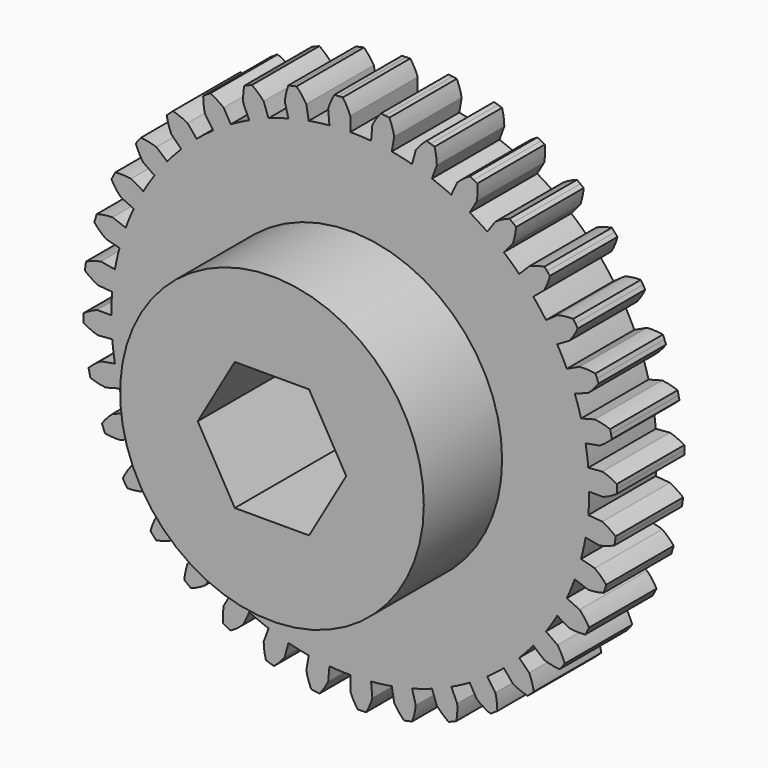
from build123d import *

# Parameters (mm, degrees)
F1_DEPTH = 6.35
F2_R     = 11.43
F3_DEPTH = 7.366
F5_DEPTH = 25.4


with BuildPart() as f1:
    # F0 (on Front) → F1 (new body)
    with BuildSketch(Plane.XZ):
        with BuildLine():
            Line((4.930503, 18.400887), (4.654395, 17.370437))
            ThreePointArc((4.654395, 17.370437), (3.892277, 17.556926), (3.12275, 17.709995))
            ThreePointArc((3.12275, 17.709995), (2.347279, 17.829351), (1.567339, 17.914768))
            ThreePointArc((1.567339, 17.914768), (0.784416, 17.966084), (0, 17.9832))
            ThreePointArc((0, 17.9832), (-0.784416, 17.966084), (-1.567339, 17.914768))
            ThreePointArc((-1.567339, 17.914768), (-2.347279, 17.829351), (-3.12275, 17.709995))
            ThreePointArc((-3.12275, 17.709995), (-3.892277, 17.556926), (-4.654395, 17.370437))
            ThreePointArc((-4.654395, 17.370437), (-5.407653, 17.150883), (-6.150617, 16.89868))
            ThreePointArc((-6.150617, 16.89868), (-6.881873, 16.61431), (-7.600029, 16.298314))
            ThreePointArc((-7.600029, 16.298314), (-8.303718, 15.951293), (-8.9916, 15.573908))
            ThreePointArc((-8.9916, 15.573908), (-9.662366, 15.166877), (-10.31474, 14.730975))
            ThreePointArc((-10.31474, 14.730975), (-10.947479, 14.267032), (-11.559378, 13.77593))
            ThreePointArc((-11.559378, 13.77593), (-12.149274, 13.258606), (-12.716043, 12.716043))
            ThreePointArc((-12.716043, 12.716043), (-13.258606, 12.149274), (-13.77593, 11.559378))
            ThreePointArc((-13.77593, 11.559378), (-14.267032, 10.947479), (-14.730975, 10.31474))
            ThreePointArc((-14.730975, 10.31474), (-15.166877, 9.662366), (-15.573908, 8.9916))
            ThreePointArc((-15.573908, 8.9916), (-15.951293, 8.303718), (-16.298314, 7.600029))
            ThreePointArc((-16.298314, 7.600029), (-16.61431, 6.881873), (-16.89868, 6.150617))
            ThreePointArc((-16.89868, 6.150617), (-17.150883, 5.407653), (-17.370437, 4.654395))
            ThreePointArc((-17.370437, 4.654395), (-17.556926, 3.892277), (-17.709995, 3.12275))
            ThreePointArc((-17.709995, 3.12275), (-17.829351, 2.347279), (-17.914768, 1.567339))
            ThreePointArc((-17.914768, 1.567339), (-17.966084, 0.784416), (-17.9832, 0))
            ThreePointArc((-17.9832, 0), (-17.966084, -0.784416), (-17.914768, -1.567339))
            ThreePointArc((-17.914768, -1.567339), (-17.829351, -2.347279), (-17.709995, -3.12275))
            ThreePointArc((-17.709995, -3.12275), (-17.556926, -3.892277), (-17.370437, -4.654395))
            ThreePointArc((-17.370437, -4.654395), (-17.150883, -5.407653), (-16.89868, -6.150617))
            ThreePointArc((-16.89868, -6.150617), (-16.61431, -6.881873), (-16.298314, -7.600029))
            ThreePointArc((-16.298314, -7.600029), (-15.951293, -8.303718), (-15.573908, -8.9916))
            ThreePointArc((-15.573908, -8.9916), (-15.166877, -9.662366), (-14.730975, -10.31474))
            ThreePointArc((-14.730975, -10.31474), (-14.267032, -10.947479), (-13.77593, -11.559378))
            ThreePointArc((-13.77593, -11.559378), (-13.258606, -12.149274), (-12.716043, -12.716043))
            ThreePointArc((-12.716043, -12.716043), (-12.149274, -13.258606), (-11.559378, -13.77593))
            ThreePointArc((-11.559378, -13.77593), (-10.947479, -14.267032), (-10.31474, -14.730975))
            ThreePointArc((-10.31474, -14.730975), (-9.662366, -15.166877), (-8.9916, -15.573908))
            ThreePointArc((-8.9916, -15.573908), (-8.303718, -15.951293), (-7.600029, -16.298314))
            ThreePointArc((-7.600029, -16.298314), (-6.881873, -16.61431), (-6.150617, -16.89868))
            ThreePointArc((-6.150617, -16.89868), (-5.407653, -17.150883), (-4.654395, -17.370437))
            ThreePointArc((-4.654395, -17.370437), (-3.892277, -17.556926), (-3.12275, -17.709995))
            ThreePointArc((-3.12275, -17.709995), (-2.347279, -17.829351), (-1.567339, -17.914768))
            ThreePointArc((-1.567339, -17.914768), (-0.784416, -17.966084), (0, -17.9832))
            ThreePointArc((0, -17.9832), (0.784416, -17.966084), (1.567339, -17.914768))
            ThreePointArc((1.567339, -17.914768), (2.347279, -17.829351), (3.12275, -17.709995))
            ThreePointArc((3.12275, -17.709995), (3.892277, -17.556926), (4.654395, -17.370437))
            ThreePointArc((4.654395, -17.370437), (5.407653, -17.150883), (6.150617, -16.89868))
            ThreePointArc((6.150617, -16.89868), (6.881873, -16.61431), (7.600029, -16.298314))
            ThreePointArc((7.600029, -16.298314), (8.303718, -15.951293), (8.9916, -15.573908))
            ThreePointArc((8.9916, -15.573908), (9.662366, -15.166877), (10.31474, -14.730975))
            ThreePointArc((10.31474, -14.730975), (10.947479, -14.267032), (11.559378, -13.77593))
            ThreePointArc((11.559378, -13.77593), (12.149274, -13.258606), (12.716043, -12.716043))
            ThreePointArc((12.716043, -12.716043), (13.258606, -12.149274), (13.77593, -11.559378))
            ThreePointArc((13.77593, -11.559378), (14.267032, -10.947479), (14.730975, -10.31474))
            ThreePointArc((14.730975, -10.31474), (15.166877, -9.662366), (15.573908, -8.9916))
            ThreePointArc((15.573908, -8.9916), (15.951293, -8.303718), (16.298314, -7.600029))
            ThreePointArc((16.298314, -7.600029), (16.61431, -6.881873), (16.89868, -6.150617))
            ThreePointArc((16.89868, -6.150617), (17.150883, -5.407653), (17.370437, -4.654395))
            ThreePointArc((17.370437, -4.654395), (17.556926, -3.892277), (17.709995, -3.12275))
            ThreePointArc((17.709995, -3.12275), (17.829351, -2.347279), (17.914768, -1.567339))
            ThreePointArc((17.914768, -1.567339), (17.966084, -0.784416), (17.9832, 0))
            ThreePointArc((17.9832, 0), (17.966084, 0.784416), (17.914768, 1.567339))
            ThreePointArc((17.914768, 1.567339), (17.829351, 2.347279), (17.709995, 3.12275))
            ThreePointArc((17.709995, 3.12275), (17.556926, 3.892277), (17.370437, 4.654395))
            ThreePointArc((17.370437, 4.654395), (17.150883, 5.407653), (16.89868, 6.150617))
            ThreePointArc((16.89868, 6.150617), (16.61431, 6.881873), (16.298314, 7.600029))
            ThreePointArc((16.298314, 7.600029), (15.951293, 8.303718), (15.573908, 8.9916))
            ThreePointArc((15.573908, 8.9916), (15.166877, 9.662366), (14.730975, 10.31474))
            ThreePointArc((14.730975, 10.31474), (14.267032, 10.947479), (13.77593, 11.559378))
            ThreePointArc((13.77593, 11.559378), (13.258606, 12.149274), (12.716043, 12.716043))
            ThreePointArc((12.716043, 12.716043), (12.149274, 13.258606), (11.559378, 13.77593))
            ThreePointArc((11.559378, 13.77593), (10.947479, 14.267032), (10.31474, 14.730975))
            ThreePointArc((10.31474, 14.730975), (9.662366, 15.166877), (8.9916, 15.573908))
            Line((8.9916, 15.573908), (9.525, 16.497784))
            ThreePointArc((9.525, 16.497784), (9.580805, 17.089891), (9.562378, 17.684337))
            ThreePointArc((9.562378, 17.684337), (9.423001, 17.758995), (9.28304, 17.832554))
            ThreePointArc((9.28304, 17.832554), (9.142506, 17.905011), (9.001406, 17.97636))
            ThreePointArc((9.001406, 17.97636), (8.503895, 17.650495), (8.050878, 17.265163))
            Line((8.050878, 17.265163), (7.600029, 16.298314))
            ThreePointArc((7.600029, 16.298314), (6.881873, 16.61431), (6.150617, 16.89868))
            Line((6.150617, 16.89868), (6.515484, 17.901144))
            ThreePointArc((6.515484, 17.901144), (6.467623, 18.493947), (6.346251, 19.076161))
            ThreePointArc((6.346251, 19.076161), (6.196027, 19.125483), (6.045419, 19.173621))
            ThreePointArc((6.045419, 19.173621), (5.894438, 19.220573), (5.743092, 19.266337))
            ThreePointArc((5.743092, 19.266337), (5.309726, 18.85903), (4.930503, 18.400887))
        make_face()
        with BuildLine():
            ThreePointArc((-10.31474, 14.730975), (-9.662366, 15.166877), (-8.9916, 15.573908))
            Line((-8.9916, 15.573908), (-9.525, 16.497784))
            ThreePointArc((-9.525, 16.497784), (-10.009877, 16.842166), (-10.533896, 17.123431))
            ThreePointArc((-10.533896, 17.123431), (-10.66824, 17.040055), (-10.801925, 16.955626))
            ThreePointArc((-10.801925, 16.955626), (-10.934942, 16.870148), (-11.067282, 16.783626))
            ThreePointArc((-11.067282, 16.783626), (-11.033829, 16.189837), (-10.926631, 15.604846))
            Line((-10.926631, 15.604846), (-10.31474, 14.730975))
        make_face()
        with BuildLine():
            ThreePointArc((-16.298314, -7.600029), (-16.61431, -6.881873), (-16.89868, -6.150617))
            Line((-16.89868, -6.150617), (-17.901144, -6.515484))
            ThreePointArc((-17.901144, -6.515484), (-18.324493, -6.933193), (-18.692479, -7.40041))
            ThreePointArc((-18.692479, -7.40041), (-18.633699, -7.547191), (-18.573767, -7.693506))
            ThreePointArc((-18.573767, -7.693506), (-18.512685, -7.839345), (-18.450459, -7.984699))
            ThreePointArc((-18.450459, -7.984699), (-17.859881, -8.054865), (-17.265163, -8.050878))
            Line((-17.265163, -8.050878), (-16.298314, -7.600029))
        make_face()
        with BuildLine():
            Line((8.050878, -17.265163), (7.600029, -16.298314))
            ThreePointArc((7.600029, -16.298314), (6.881873, -16.61431), (6.150617, -16.89868))
            Line((6.150617, -16.89868), (6.515484, -17.901144))
            ThreePointArc((6.515484, -17.901144), (6.933193, -18.324493), (7.40041, -18.692479))
            ThreePointArc((7.40041, -18.692479), (7.547191, -18.633699), (7.693506, -18.573767))
            ThreePointArc((7.693506, -18.573767), (7.839345, -18.512685), (7.984699, -18.450459))
            ThreePointArc((7.984699, -18.450459), (8.054865, -17.859881), (8.050878, -17.265163))
        make_face()
        with BuildLine():
            ThreePointArc((-10.31474, -14.730975), (-10.947479, -14.267032), (-11.559378, -13.77593))
            Line((-11.559378, -13.77593), (-12.245104, -14.593147))
            ThreePointArc((-12.245104, -14.593147), (-12.402879, -15.166568), (-12.487957, -15.755182))
            ThreePointArc((-12.487957, -15.755182), (-12.363661, -15.852909), (-12.238601, -15.949655))
            ThreePointArc((-12.238601, -15.949655), (-12.112783, -16.045414), (-11.986216, -16.140181))
            ThreePointArc((-11.986216, -16.140181), (-11.439678, -15.905658), (-10.926631, -15.604846))
            Line((-10.926631, -15.604846), (-10.31474, -14.730975))
        make_face()
        with BuildLine():
            ThreePointArc((-12.716043, -12.716043), (-13.258606, -12.149274), (-13.77593, -11.559378))
            Line((-13.77593, -11.559378), (-14.593147, -12.245104))
            ThreePointArc((-14.593147, -12.245104), (-14.848099, -12.782416), (-15.034095, -13.347315))
            ThreePointArc((-15.034095, -13.347315), (-14.928658, -13.46514), (-14.822297, -13.582133))
            ThreePointArc((-14.822297, -13.582133), (-14.71502, -13.698286), (-14.606832, -13.813591))
            ThreePointArc((-14.606832, -13.813591), (-14.027872, -13.677536), (-13.470384, -13.470384))
            Line((-13.470384, -13.470384), (-12.716043, -12.716043))
        make_face()
        with BuildLine():
            ThreePointArc((-7.600029, 16.298314), (-6.881873, 16.61431), (-6.150617, 16.89868))
            Line((-6.150617, 16.89868), (-6.515484, 17.901144))
            ThreePointArc((-6.515484, 17.901144), (-6.933193, 18.324493), (-7.40041, 18.692479))
            ThreePointArc((-7.40041, 18.692479), (-7.547191, 18.633699), (-7.693506, 18.573767))
            ThreePointArc((-7.693506, 18.573767), (-7.839345, 18.512685), (-7.984699, 18.450459))
            ThreePointArc((-7.984699, 18.450459), (-8.054865, 17.859881), (-8.050878, 17.265163))
            Line((-8.050878, 17.265163), (-7.600029, 16.298314))
        make_face()
        with BuildLine():
            ThreePointArc((-12.716043, 12.716043), (-12.149274, 13.258606), (-11.559378, 13.77593))
            Line((-11.559378, 13.77593), (-12.245104, 14.593147))
            ThreePointArc((-12.245104, 14.593147), (-12.782416, 14.848099), (-13.347315, 15.034095))
            ThreePointArc((-13.347315, 15.034095), (-13.46514, 14.928658), (-13.582133, 14.822297))
            ThreePointArc((-13.582133, 14.822297), (-13.698286, 14.71502), (-13.813591, 14.606832))
            ThreePointArc((-13.813591, 14.606832), (-13.677536, 14.027872), (-13.470384, 13.470384))
            Line((-13.470384, 13.470384), (-12.716043, 12.716043))
        make_face()
        with BuildLine():
            ThreePointArc((-16.298314, 7.600029), (-15.951293, 8.303718), (-15.573908, 8.9916))
            Line((-15.573908, 8.9916), (-16.497784, 9.525))
            ThreePointArc((-16.497784, 9.525), (-17.089891, 9.580805), (-17.684337, 9.562378))
            ThreePointArc((-17.684337, 9.562378), (-17.758995, 9.423001), (-17.832554, 9.28304))
            ThreePointArc((-17.832554, 9.28304), (-17.905011, 9.142506), (-17.97636, 9.001406))
            ThreePointArc((-17.97636, 9.001406), (-17.650495, 8.503895), (-17.265163, 8.050878))
            Line((-17.265163, 8.050878), (-16.298314, 7.600029))
        make_face()
        with BuildLine():
            Line((15.604846, 10.926631), (14.730975, 10.31474))
            ThreePointArc((14.730975, 10.31474), (15.166877, 9.662366), (15.573908, 8.9916))
            Line((15.573908, 8.9916), (16.497784, 9.525))
            ThreePointArc((16.497784, 9.525), (16.842166, 10.009877), (17.123431, 10.533896))
            ThreePointArc((17.123431, 10.533896), (17.040055, 10.66824), (16.955626, 10.801925))
            ThreePointArc((16.955626, 10.801925), (16.870148, 10.934942), (16.783626, 11.067282))
            ThreePointArc((16.783626, 11.067282), (16.189837, 11.033829), (15.604846, 10.926631))
        make_face()
        with BuildLine():
            Line((13.470384, -13.470384), (12.716043, -12.716043))
            ThreePointArc((12.716043, -12.716043), (12.149274, -13.258606), (11.559378, -13.77593))
            Line((11.559378, -13.77593), (12.245104, -14.593147))
            ThreePointArc((12.245104, -14.593147), (12.782416, -14.848099), (13.347315, -15.034095))
            ThreePointArc((13.347315, -15.034095), (13.46514, -14.928658), (13.582133, -14.822297))
            ThreePointArc((13.582133, -14.822297), (13.698286, -14.71502), (13.813591, -14.606832))
            ThreePointArc((13.813591, -14.606832), (13.677536, -14.027872), (13.470384, -13.470384))
        make_face()
        with BuildLine():
            Line((15.604846, -10.926631), (14.730975, -10.31474))
            ThreePointArc((14.730975, -10.31474), (14.267032, -10.947479), (13.77593, -11.559378))
            Line((13.77593, -11.559378), (14.593147, -12.245104))
            ThreePointArc((14.593147, -12.245104), (15.166568, -12.402879), (15.755182, -12.487957))
            ThreePointArc((15.755182, -12.487957), (15.852909, -12.363661), (15.949655, -12.238601))
            ThreePointArc((15.949655, -12.238601), (16.045414, -12.112783), (16.140181, -11.986216))
            ThreePointArc((16.140181, -11.986216), (15.905658, -11.439678), (15.604846, -10.926631))
        make_face()
        with BuildLine():
            Line((18.400887, 4.930503), (17.370437, 4.654395))
            ThreePointArc((17.370437, 4.654395), (17.556926, 3.892277), (17.709995, 3.12275))
            Line((17.709995, 3.12275), (18.760588, 3.307998))
            ThreePointArc((18.760588, 3.307998), (19.250039, 3.645848), (19.693566, 4.042066))
            ThreePointArc((19.693566, 4.042066), (19.661167, 4.196825), (19.627553, 4.351324))
            ThreePointArc((19.627553, 4.351324), (19.592724, 4.505554), (19.556683, 4.659505))
            ThreePointArc((19.556683, 4.659505), (18.987262, 4.831158), (18.400887, 4.930503))
        make_face()
        with BuildLine():
            Line((17.265163, 8.050878), (16.298314, 7.600029))
            ThreePointArc((16.298314, 7.600029), (16.61431, 6.881873), (16.89868, 6.150617))
            Line((16.89868, 6.150617), (17.901144, 6.515484))
            ThreePointArc((17.901144, 6.515484), (18.324493, 6.933193), (18.692479, 7.40041))
            ThreePointArc((18.692479, 7.40041), (18.633699, 7.547191), (18.573767, 7.693506))
            ThreePointArc((18.573767, 7.693506), (18.512685, 7.839345), (18.450459, 7.984699))
            ThreePointArc((18.450459, 7.984699), (17.859881, 8.054865), (17.265163, 8.050878))
        make_face()
        with BuildLine():
            ThreePointArc((-7.600029, -16.298314), (-8.303718, -15.951293), (-8.9916, -15.573908))
            Line((-8.9916, -15.573908), (-9.525, -16.497784))
            ThreePointArc((-9.525, -16.497784), (-9.580805, -17.089891), (-9.562378, -17.684337))
            ThreePointArc((-9.562378, -17.684337), (-9.423001, -17.758995), (-9.28304, -17.832554))
            ThreePointArc((-9.28304, -17.832554), (-9.142506, -17.905011), (-9.001406, -17.97636))
            ThreePointArc((-9.001406, -17.97636), (-8.503895, -17.650495), (-8.050878, -17.265163))
            Line((-8.050878, -17.265163), (-7.600029, -16.298314))
        make_face()
        with BuildLine():
            Line((13.470384, 13.470384), (12.716043, 12.716043))
            ThreePointArc((12.716043, 12.716043), (13.258606, 12.149274), (13.77593, 11.559378))
            Line((13.77593, 11.559378), (14.593147, 12.245104))
            ThreePointArc((14.593147, 12.245104), (14.848099, 12.782416), (15.034095, 13.347315))
            ThreePointArc((15.034095, 13.347315), (14.928658, 13.46514), (14.822297, 13.582133))
            ThreePointArc((14.822297, 13.582133), (14.71502, 13.698286), (14.606832, 13.813591))
            ThreePointArc((14.606832, 13.813591), (14.027872, 13.677536), (13.470384, 13.470384))
        make_face()
        with BuildLine():
            ThreePointArc((-4.654395, -17.370437), (-5.407653, -17.150883), (-6.150617, -16.89868))
            Line((-6.150617, -16.89868), (-6.515484, -17.901144))
            ThreePointArc((-6.515484, -17.901144), (-6.467623, -18.493947), (-6.346251, -19.076161))
            ThreePointArc((-6.346251, -19.076161), (-6.196027, -19.125483), (-6.045419, -19.173621))
            ThreePointArc((-6.045419, -19.173621), (-5.894438, -19.220573), (-5.743092, -19.266337))
            ThreePointArc((-5.743092, -19.266337), (-5.309726, -18.85903), (-4.930503, -18.400887))
            Line((-4.930503, -18.400887), (-4.654395, -17.370437))
        make_face()
        with BuildLine():
            Line((10.926631, 15.604846), (10.31474, 14.730975))
            ThreePointArc((10.31474, 14.730975), (10.947479, 14.267032), (11.559378, 13.77593))
            Line((11.559378, 13.77593), (12.245104, 14.593147))
            ThreePointArc((12.245104, 14.593147), (12.402879, 15.166568), (12.487957, 15.755182))
            ThreePointArc((12.487957, 15.755182), (12.363661, 15.852909), (12.238601, 15.949655))
            ThreePointArc((12.238601, 15.949655), (12.112783, 16.045414), (11.986216, 16.140181))
            ThreePointArc((11.986216, 16.140181), (11.439678, 15.905658), (10.926631, 15.604846))
        make_face()
        with BuildLine():
            ThreePointArc((-1.567339, -17.914768), (-2.347279, -17.829351), (-3.12275, -17.709995))
            Line((-3.12275, -17.709995), (-3.307998, -18.760588))
            ThreePointArc((-3.307998, -18.760588), (-3.157925, -19.336073), (-2.937297, -19.888367))
            ThreePointArc((-2.937297, -19.888367), (-2.78079, -19.910852), (-2.624112, -19.932107))
            ThreePointArc((-2.624112, -19.932107), (-2.467271, -19.952128), (-2.310277, -19.970915))
            ThreePointArc((-2.310277, -19.970915), (-1.954223, -19.494543), (-1.660317, -18.977509))
            Line((-1.660317, -18.977509), (-1.567339, -17.914768))
        make_face()
        with BuildLine():
            ThreePointArc((1.567339, -17.914768), (0.784416, -17.966084), (0, -17.9832))
            Line((0, -17.9832), (0, -19.05))
            ThreePointArc((0, -19.05), (0.247725, -19.590682), (0.560906, -20.096274))
            ThreePointArc((0.560906, -20.096274), (0.71894, -20.091241), (0.876929, -20.084965))
            ThreePointArc((0.876929, -20.084965), (1.034863, -20.077447), (1.192734, -20.068688))
            ThreePointArc((1.192734, -20.068688), (1.460658, -19.537725), (1.660317, -18.977509))
            Line((1.660317, -18.977509), (1.567339, -17.914768))
        make_face()
        with BuildLine():
            Line((4.930503, -18.400887), (4.654395, -17.370437))
            ThreePointArc((4.654395, -17.370437), (3.892277, -17.556926), (3.12275, -17.709995))
            Line((3.12275, -17.709995), (3.307998, -18.760588))
            ThreePointArc((3.307998, -18.760588), (3.645848, -19.250039), (4.042066, -19.693566))
            ThreePointArc((4.042066, -19.693566), (4.196825, -19.661167), (4.351324, -19.627553))
            ThreePointArc((4.351324, -19.627553), (4.505554, -19.592724), (4.659505, -19.556683))
            ThreePointArc((4.659505, -19.556683), (4.831158, -18.987262), (4.930503, -18.400887))
        make_face()
        with BuildLine():
            Line((10.926631, -15.604846), (10.31474, -14.730975))
            ThreePointArc((10.31474, -14.730975), (9.662366, -15.166877), (8.9916, -15.573908))
            Line((8.9916, -15.573908), (9.525, -16.497784))
            ThreePointArc((9.525, -16.497784), (10.009877, -16.842166), (10.533896, -17.123431))
            ThreePointArc((10.533896, -17.123431), (10.66824, -17.040055), (10.801925, -16.955626))
            ThreePointArc((10.801925, -16.955626), (10.934942, -16.870148), (11.067282, -16.783626))
            ThreePointArc((11.067282, -16.783626), (11.033829, -16.189837), (10.926631, -15.604846))
        make_face()
        with BuildLine():
            ThreePointArc((-14.730975, -10.31474), (-15.166877, -9.662366), (-15.573908, -8.9916))
            Line((-15.573908, -8.9916), (-16.497784, -9.525))
            ThreePointArc((-16.497784, -9.525), (-16.842166, -10.009877), (-17.123431, -10.533896))
            ThreePointArc((-17.123431, -10.533896), (-17.040055, -10.66824), (-16.955626, -10.801925))
            ThreePointArc((-16.955626, -10.801925), (-16.870148, -10.934942), (-16.783626, -11.067282))
            ThreePointArc((-16.783626, -11.067282), (-16.189837, -11.033829), (-15.604846, -10.926631))
            Line((-15.604846, -10.926631), (-14.730975, -10.31474))
        make_face()
        with BuildLine():
            ThreePointArc((1.567339, 17.914768), (2.347279, 17.829351), (3.12275, 17.709995))
            Line((3.12275, 17.709995), (3.307998, 18.760588))
            ThreePointArc((3.307998, 18.760588), (3.157925, 19.336073), (2.937297, 19.888367))
            ThreePointArc((2.937297, 19.888367), (2.78079, 19.910852), (2.624112, 19.932107))
            ThreePointArc((2.624112, 19.932107), (2.467271, 19.952128), (2.310277, 19.970915))
            ThreePointArc((2.310277, 19.970915), (1.954223, 19.494543), (1.660317, 18.977509))
            Line((1.660317, 18.977509), (1.567339, 17.914768))
        make_face()
        with BuildLine():
            ThreePointArc((-1.567339, 17.914768), (-0.784416, 17.966084), (0, 17.9832))
            Line((0, 17.9832), (0, 19.05))
            ThreePointArc((0, 19.05), (-0.247725, 19.590682), (-0.560906, 20.096274))
            ThreePointArc((-0.560906, 20.096274), (-0.71894, 20.091241), (-0.876929, 20.084965))
            ThreePointArc((-0.876929, 20.084965), (-1.034863, 20.077447), (-1.192734, 20.068688))
            ThreePointArc((-1.192734, 20.068688), (-1.460658, 19.537725), (-1.660317, 18.977509))
            Line((-1.660317, 18.977509), (-1.567339, 17.914768))
        make_face()
        with BuildLine():
            ThreePointArc((-4.654395, 17.370437), (-3.892277, 17.556926), (-3.12275, 17.709995))
            Line((-3.12275, 17.709995), (-3.307998, 18.760588))
            ThreePointArc((-3.307998, 18.760588), (-3.645848, 19.250039), (-4.042066, 19.693566))
            ThreePointArc((-4.042066, 19.693566), (-4.196825, 19.661167), (-4.351324, 19.627553))
            ThreePointArc((-4.351324, 19.627553), (-4.505554, 19.592724), (-4.659505, 19.556683))
            ThreePointArc((-4.659505, 19.556683), (-4.831158, 18.987262), (-4.930503, 18.400887))
            Line((-4.930503, 18.400887), (-4.654395, 17.370437))
        make_face()
        with BuildLine():
            ThreePointArc((-14.730975, 10.31474), (-14.267032, 10.947479), (-13.77593, 11.559378))
            Line((-13.77593, 11.559378), (-14.593147, 12.245104))
            ThreePointArc((-14.593147, 12.245104), (-15.166568, 12.402879), (-15.755182, 12.487957))
            ThreePointArc((-15.755182, 12.487957), (-15.852909, 12.363661), (-15.949655, 12.238601))
            ThreePointArc((-15.949655, 12.238601), (-16.045414, 12.112783), (-16.140181, 11.986216))
            ThreePointArc((-16.140181, 11.986216), (-15.905658, 11.439678), (-15.604846, 10.926631))
            Line((-15.604846, 10.926631), (-14.730975, 10.31474))
        make_face()
        with BuildLine():
            ThreePointArc((-17.370437, 4.654395), (-17.150883, 5.407653), (-16.89868, 6.150617))
            Line((-16.89868, 6.150617), (-17.901144, 6.515484))
            ThreePointArc((-17.901144, 6.515484), (-18.493947, 6.467623), (-19.076161, 6.346251))
            ThreePointArc((-19.076161, 6.346251), (-19.125483, 6.196027), (-19.173621, 6.045419))
            ThreePointArc((-19.173621, 6.045419), (-19.220573, 5.894438), (-19.266337, 5.743092))
            ThreePointArc((-19.266337, 5.743092), (-18.85903, 5.309726), (-18.400887, 4.930503))
            Line((-18.400887, 4.930503), (-17.370437, 4.654395))
        make_face()
        with BuildLine():
            ThreePointArc((-17.914768, 1.567339), (-17.829351, 2.347279), (-17.709995, 3.12275))
            Line((-17.709995, 3.12275), (-18.760588, 3.307998))
            ThreePointArc((-18.760588, 3.307998), (-19.336073, 3.157925), (-19.888367, 2.937297))
            ThreePointArc((-19.888367, 2.937297), (-19.910852, 2.78079), (-19.932107, 2.624112))
            ThreePointArc((-19.932107, 2.624112), (-19.952128, 2.467271), (-19.970915, 2.310277))
            ThreePointArc((-19.970915, 2.310277), (-19.494543, 1.954223), (-18.977509, 1.660317))
            Line((-18.977509, 1.660317), (-17.914768, 1.567339))
        make_face()
        with BuildLine():
            Line((18.400887, -4.930503), (17.370437, -4.654395))
            ThreePointArc((17.370437, -4.654395), (17.150883, -5.407653), (16.89868, -6.150617))
            Line((16.89868, -6.150617), (17.901144, -6.515484))
            ThreePointArc((17.901144, -6.515484), (18.493947, -6.467623), (19.076161, -6.346251))
            ThreePointArc((19.076161, -6.346251), (19.125483, -6.196027), (19.173621, -6.045419))
            ThreePointArc((19.173621, -6.045419), (19.220573, -5.894438), (19.266337, -5.743092))
            ThreePointArc((19.266337, -5.743092), (18.85903, -5.309726), (18.400887, -4.930503))
        make_face()
        with BuildLine():
            ThreePointArc((-17.914768, -1.567339), (-17.966084, -0.784416), (-17.9832, 0))
            Line((-17.9832, 0), (-19.05, 0))
            ThreePointArc((-19.05, 0), (-19.590682, -0.247725), (-20.096274, -0.560906))
            ThreePointArc((-20.096274, -0.560906), (-20.091241, -0.71894), (-20.084965, -0.876929))
            ThreePointArc((-20.084965, -0.876929), (-20.077447, -1.034863), (-20.068688, -1.192734))
            ThreePointArc((-20.068688, -1.192734), (-19.537725, -1.460658), (-18.977509, -1.660317))
            Line((-18.977509, -1.660317), (-17.914768, -1.567339))
        make_face()
        with BuildLine():
            ThreePointArc((-17.370437, -4.654395), (-17.556926, -3.892277), (-17.709995, -3.12275))
            Line((-17.709995, -3.12275), (-18.760588, -3.307998))
            ThreePointArc((-18.760588, -3.307998), (-19.250039, -3.645848), (-19.693566, -4.042066))
            ThreePointArc((-19.693566, -4.042066), (-19.661167, -4.196825), (-19.627553, -4.351324))
            ThreePointArc((-19.627553, -4.351324), (-19.592724, -4.505554), (-19.556683, -4.659505))
            ThreePointArc((-19.556683, -4.659505), (-18.987262, -4.831158), (-18.400887, -4.930503))
            Line((-18.400887, -4.930503), (-17.370437, -4.654395))
        make_face()
        with BuildLine():
            Line((18.977509, 1.660317), (17.914768, 1.567339))
            ThreePointArc((17.914768, 1.567339), (17.966084, 0.784416), (17.9832, 0))
            Line((17.9832, 0), (19.05, 0))
            ThreePointArc((19.05, 0), (19.590682, 0.247725), (20.096274, 0.560906))
            ThreePointArc((20.096274, 0.560906), (20.091241, 0.71894), (20.084965, 0.876929))
            ThreePointArc((20.084965, 0.876929), (20.077447, 1.034863), (20.068688, 1.192734))
            ThreePointArc((20.068688, 1.192734), (19.537725, 1.460658), (18.977509, 1.660317))
        make_face()
        with BuildLine():
            Line((18.977509, -1.660317), (17.914768, -1.567339))
            ThreePointArc((17.914768, -1.567339), (17.829351, -2.347279), (17.709995, -3.12275))
            Line((17.709995, -3.12275), (18.760588, -3.307998))
            ThreePointArc((18.760588, -3.307998), (19.336073, -3.157925), (19.888367, -2.937297))
            ThreePointArc((19.888367, -2.937297), (19.910852, -2.78079), (19.932107, -2.624112))
            ThreePointArc((19.932107, -2.624112), (19.952128, -2.467271), (19.970915, -2.310277))
            ThreePointArc((19.970915, -2.310277), (19.494543, -1.954223), (18.977509, -1.660317))
        make_face()
        with BuildLine():
            Line((17.265163, -8.050878), (16.298314, -7.600029))
            ThreePointArc((16.298314, -7.600029), (15.951293, -8.303718), (15.573908, -8.9916))
            Line((15.573908, -8.9916), (16.497784, -9.525))
            ThreePointArc((16.497784, -9.525), (17.089891, -9.580805), (17.684337, -9.562378))
            ThreePointArc((17.684337, -9.562378), (17.758995, -9.423001), (17.832554, -9.28304))
            ThreePointArc((17.832554, -9.28304), (17.905011, -9.142506), (17.97636, -9.001406))
            ThreePointArc((17.97636, -9.001406), (17.650495, -8.503895), (17.265163, -8.050878))
        make_face()
    extrude(amount=F1_DEPTH)

    # F2 (on face) → F3 (join)
    with BuildSketch(Plane.XZ.offset(6.35)):
        Circle(F2_R)
    extrude(amount=F3_DEPTH)

    # F4 (on face) → F5 (cut)
    with BuildSketch(Plane.XZ.offset(13.716)):
        Polygon((2.794, -4.83935), (5.588, 0), (2.794, 4.83935), (-2.794, 4.83935), (-5.588, 0), (-2.794, -4.83935), align=None)
    extrude(amount=-F5_DEPTH, mode=Mode.SUBTRACT)


solid = f1.part
